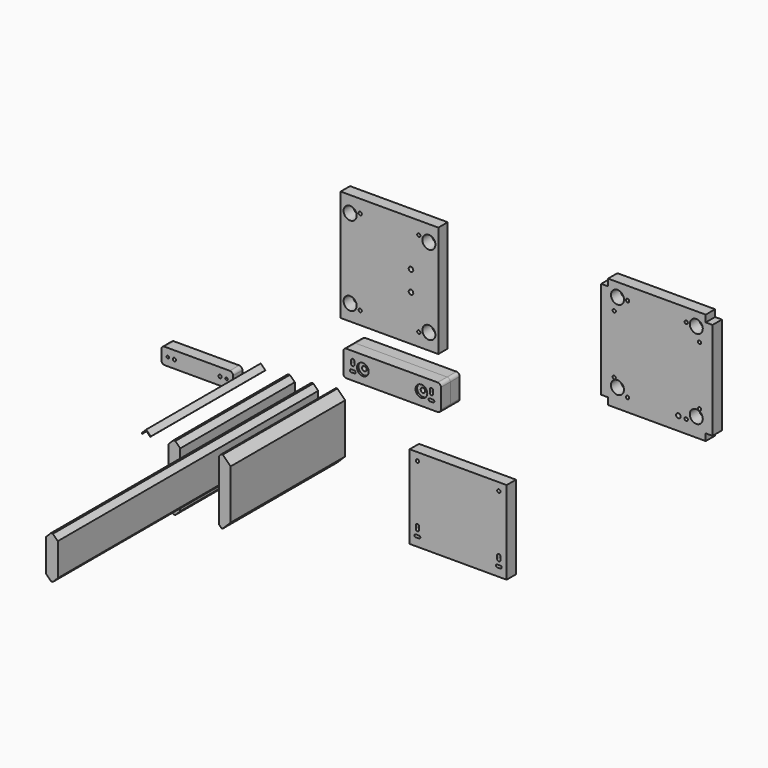
from build123d import *

# Parameters (mm, degrees)
F1_DEPTH  = 220
F3_DEPTH  = 500
F4_W      = 110
F4_H      = 25
F4_R      = 2
F4_R_2    = 2.5
F5_DEPTH  = 18
F6_R      = 5
F8_DEPTH  = 220
F9_W      = 149
F9_H      = 128
F9_R      = 2.5
F10_DEPTH = 18
F11_R     = 2.5
F12_DEPTH = 25
F13_W     = 150
F13_H     = 40
F14_DEPTH = 18
F15_R     = 2.5
F16_DEPTH = 25
F17_R     = 5
F18_R     = 3.5
F19_DEPTH = 25
F20_R     = 9
F21_DEPTH = 3
F22_W     = 150
F22_H     = 171
F22_R     = 2.5
F23_DEPTH = 18
F24_R     = 10
F25_DEPTH = 25
F26_R     = 3.5
F27_DEPTH = 25
F28_R     = 9
F29_DEPTH = 3
F30_R     = 3.5
F30_R_2   = 10
F31_DEPTH = 18
F33_DEPTH = 220
F34_W     = 150
F34_H     = 10.5
F34_W_2   = 10.5
F34_H_2   = 150
F34_R     = 2.5
F35_DEPTH = 18
F36_R     = 10
F37_DEPTH = 25
F38_R     = 3.5
F39_DEPTH = 25


with BuildPart() as f1:
    # F0 (on Front) → F1 (new body)
    with BuildSketch(Plane.XZ):
        Polygon((-8.9598067405, -26.6892028064), (-1.4310971492, -34.1604932151), (1.5689028508, -34.1604932151), (9.0401932595, -26.6317836238), (9.0401932595, 58.3682163762), (1.5114836682, 65.8395067849), (-1.4885163318, 65.8395067849), (-8.9598067405, 58.3107971936), align=None)
    extrude(amount=F1_DEPTH)


with BuildPart() as f3:
    # F2 (on Front) → F3 (new body)
    with BuildSketch(Plane.XZ):
        Polygon((26.9945189357, 8.3999976516), (34.5249012537, 0.9303799696), (37.5249012537, 0.9303799696), (44.9945189357, 8.4607622876), (44.9945189357, 58.4607622876), (37.4641366177, 65.9303799696), (34.4641366177, 65.9303799696), (26.9945189357, 58.3999976516), align=None)
    extrude(amount=F3_DEPTH)


with BuildPart() as f5:
    # F4 (on Front) → F5 (new body)
    with BuildSketch(Plane.XZ):
        with Locations((-126.4987008849, 40.8526393026)):
            Rectangle(F4_W, F4_H)
        with Locations((-171.4987008849, 40.8526393026)):
            Circle(F4_R, mode=Mode.SUBTRACT)
        with Locations((-161.4987008849, 40.8526393026)):
            Circle(F4_R_2, mode=Mode.SUBTRACT)
        with Locations((-91.4987008849, 40.8526393026)):
            Circle(F4_R_2, mode=Mode.SUBTRACT)
        with Locations((-81.4987008849, 40.8526393026)):
            Circle(F4_R, mode=Mode.SUBTRACT)
    extrude(amount=F5_DEPTH)

    # F6
    f6_edges = [f5.edges().sort_by_distance(p)[0] for p in [
        (-181.498701, -9, 53.352639),
        (-181.498701, -9, 28.352639),
        (-71.498701, -9, 53.352639),
        (-71.498701, -9, 28.352639),
    ]]
    fillet(f6_edges, radius=F6_R)


with BuildPart() as f8:
    # F7 (on Front) → F8 (new body)
    with BuildSketch(Plane.XZ):
        Polygon((-50.272422795, 59.7892550582), (-49.3885393185, 58.9053715817), (-43.2013549831, 65.0925559171), (-37.0141706477, 58.9053715817), (-36.1302871713, 59.7892550582), (-43.2013549831, 66.8603228701), align=None)
    extrude(amount=F8_DEPTH)


with BuildPart() as f10:
    # F9 (on Front) → F10 (new body)
    with BuildSketch(Plane.XZ):
        with Locations((274.2160866261, -26.921486027)):
            Rectangle(F9_W, F9_H)
        with BuildLine():
            Line((214.2160866261, -78.921486027), (209.2160866261, -78.921486027))
            ThreePointArc((209.2160866261, -78.921486027), (207.2160866261, -76.921486027), (209.2160866261, -74.921486027))
            Line((209.2160866261, -74.921486027), (214.2160866261, -74.921486027))
            ThreePointArc((214.2160866261, -74.921486027), (216.2160866261, -76.921486027), (214.2160866261, -78.921486027))
        make_face(mode=Mode.SUBTRACT)
        with BuildLine():
            ThreePointArc((209.2160866261, -62.421486027), (211.7160866261, -59.921486027), (214.2160866261, -62.421486027))
            Line((214.2160866261, -62.421486027), (214.2160866261, -67.421486027))
            ThreePointArc((214.2160866261, -67.421486027), (211.7160866261, -69.921486027), (209.2160866261, -67.421486027))
            Line((209.2160866261, -67.421486027), (209.2160866261, -62.421486027))
        make_face(mode=Mode.SUBTRACT)
        with BuildLine():
            ThreePointArc((334.2160866261, -78.921486027), (332.2160866261, -76.921486027), (334.2160866261, -74.921486027))
            Line((334.2160866261, -74.921486027), (339.2160866261, -74.921486027))
            ThreePointArc((339.2160866261, -74.921486027), (341.2160866261, -76.921486027), (339.2160866261, -78.921486027))
            Line((339.2160866261, -78.921486027), (334.2160866261, -78.921486027))
        make_face(mode=Mode.SUBTRACT)
        with BuildLine():
            ThreePointArc((334.2160866261, -62.421486027), (336.7160866261, -59.921486027), (339.2160866261, -62.421486027))
            Line((339.2160866261, -62.421486027), (339.2160866261, -67.421486027))
            ThreePointArc((339.2160866261, -67.421486027), (336.7160866261, -69.921486027), (334.2160866261, -67.421486027))
            Line((334.2160866261, -67.421486027), (334.2160866261, -62.421486027))
        make_face(mode=Mode.SUBTRACT)
        with Locations((211.7160866261, 25.078513973)):
            Circle(F9_R, mode=Mode.SUBTRACT)
        with Locations((336.7160866261, 25.078513973)):
            Circle(F9_R, mode=Mode.SUBTRACT)
    extrude(amount=F10_DEPTH)

    # F11 (on face) → F12 (cut)
    with BuildSketch(Plane(origin=(0, 0, -90.921486027), x_dir=(1, 0, 0), z_dir=(0, 0, -1))):
        with Locations((211.7160866261, 9)):
            Circle(F11_R)
        with Locations((336.7160866261, 9)):
            Circle(F11_R)
    extrude(amount=-F12_DEPTH, mode=Mode.SUBTRACT)


with BuildPart() as f14:
    # F13 (on Front) → F14 (new body)
    with BuildSketch(Plane.XZ):
        with Locations((172.826719977, 121.421508193)):
            Rectangle(F13_W, F13_H)
        with BuildLine():
            Line((109.826719977, 115.921508193), (114.826719977, 115.921508193))
            ThreePointArc((114.826719977, 115.921508193), (116.826719977, 113.921508193), (114.826719977, 111.921508193))
            Line((114.826719977, 111.921508193), (109.826719977, 111.921508193))
            ThreePointArc((109.826719977, 111.921508193), (107.826719977, 113.921508193), (109.826719977, 115.921508193))
        make_face(mode=Mode.SUBTRACT)
        with BuildLine():
            ThreePointArc((230.826719977, 111.921508193), (228.826719977, 113.921508193), (230.826719977, 115.921508193))
            Line((230.826719977, 115.921508193), (235.826719977, 115.921508193))
            ThreePointArc((235.826719977, 115.921508193), (237.826719977, 113.921508193), (235.826719977, 111.921508193))
            Line((235.826719977, 111.921508193), (230.826719977, 111.921508193))
        make_face(mode=Mode.SUBTRACT)
        with BuildLine():
            Line((109.826719977, 123.421508193), (109.826719977, 128.421508193))
            ThreePointArc((109.826719977, 128.421508193), (112.326719977, 130.921508193), (114.826719977, 128.421508193))
            Line((114.826719977, 128.421508193), (114.826719977, 123.421508193))
            ThreePointArc((114.826719977, 123.421508193), (112.326719977, 120.921508193), (109.826719977, 123.421508193))
        make_face(mode=Mode.SUBTRACT)
        with BuildLine():
            ThreePointArc((230.826719977, 128.421508193), (233.326719977, 130.921508193), (235.826719977, 128.421508193))
            Line((235.826719977, 128.421508193), (235.826719977, 123.421508193))
            ThreePointArc((235.826719977, 123.421508193), (233.326719977, 120.921508193), (230.826719977, 123.421508193))
            Line((230.826719977, 123.421508193), (230.826719977, 128.421508193))
        make_face(mode=Mode.SUBTRACT)
    extrude(amount=F14_DEPTH)

    # F15 (on face) → F16 (cut)
    with BuildSketch(Plane(origin=(0, 0, 101.421508193), x_dir=(1, 0, 0), z_dir=(0, 0, -1))):
        with Locations((112.326719977, 9)):
            Circle(F15_R)
        with Locations((233.326719977, 9)):
            Circle(F15_R)
    extrude(amount=-F16_DEPTH, mode=Mode.SUBTRACT)

    # F17
    f17_edges = [f14.edges().sort_by_distance(p)[0] for p in [
        (97.82672, -9, 141.421508),
        (97.82672, -9, 101.421508),
        (247.82672, -9, 101.421508),
        (247.82672, -9, 141.421508),
    ]]
    fillet(f17_edges, radius=F17_R)

    # F18 (on face) → F19 (cut)
    with BuildSketch(Plane.XZ.offset(18)):
        with Locations((127.826719977, 121.421508193)):
            Circle(F18_R)
        with Locations((217.826719977, 121.421508193)):
            Circle(F18_R)
    extrude(amount=-F19_DEPTH, mode=Mode.SUBTRACT)

    # F20 (on face) → F21 (cut)
    with BuildSketch(Plane.XZ.offset(18)):
        with Locations((127.826719977, 121.421508193)):
            Circle(F20_R)
        with Locations((217.826719977, 121.421508193)):
            Circle(F20_R)
    extrude(amount=-F21_DEPTH, mode=Mode.SUBTRACT)


with BuildPart() as f23:
    # F22 (on Front) → F23 (new body)
    with BuildSketch(Plane.XZ):
        with Locations((168.8189171255, 265.5781562328)):
            Rectangle(F22_W, F22_H)
        with Locations((123.8189171255, 200.0781562328)):
            Circle(F22_R, mode=Mode.SUBTRACT)
        with Locations((213.8189171255, 200.0781562328)):
            Circle(F22_R, mode=Mode.SUBTRACT)
        with Locations((123.8189171255, 331.0781562328)):
            Circle(F22_R, mode=Mode.SUBTRACT)
        with Locations((213.8189171255, 331.0781562328)):
            Circle(F22_R, mode=Mode.SUBTRACT)
    extrude(amount=F23_DEPTH)

    # F24 (on face) → F25 (cut)
    with BuildSketch(Plane(origin=(0, 0, 0), x_dir=(-1, 0, 0), z_dir=(0, 1, 0))):
        with Locations((-108.3189171255, 204.5781562328)):
            Circle(F24_R)
        with Locations((-229.3189171255, 204.5781562328)):
            Circle(F24_R)
        with Locations((-108.3189171255, 326.5781562328)):
            Circle(F24_R)
        with Locations((-229.3189171255, 326.5781562328)):
            Circle(F24_R)
    extrude(amount=-F25_DEPTH, mode=Mode.SUBTRACT)

    # F26 (on face) → F27 (cut)
    with BuildSketch(Plane.XZ.offset(18)):
        with Locations((201.8189171255, 281.0781562328)):
            Circle(F26_R)
        with Locations((201.8189171255, 250.0781562328)):
            Circle(F26_R)
    extrude(amount=-F27_DEPTH, mode=Mode.SUBTRACT)

    # F28 (on face) → F29 (cut)
    with BuildSketch(Plane(origin=(0, 0, 0), x_dir=(-1, 0, 0), z_dir=(0, 1, 0))):
        with Locations((-201.8189171255, 281.0781562328)):
            Circle(F28_R)
        with Locations((-201.8189171255, 250.0781562328)):
            Circle(F28_R)
    extrude(amount=-F29_DEPTH, mode=Mode.SUBTRACT)


with BuildPart() as f31:
    # F30 (on face) → F31 (new body)
    with BuildSketch(Plane(origin=(0, 0, 0), x_dir=(-1, 0, 0), z_dir=(0, 1, 0))):
        with BuildLine():
            Line((-97.826719977, 106.421508193), (-97.826719977, 136.421508193))
            ThreePointArc((-97.826719977, 136.421508193), (-99.291186071, 139.9570420989), (-102.826719977, 141.421508193))
            Line((-102.826719977, 141.421508193), (-242.826719977, 141.421508193))
            ThreePointArc((-242.826719977, 141.421508193), (-246.3622538829, 139.9570420989), (-247.826719977, 136.421508193))
            Line((-247.826719977, 136.421508193), (-247.826719977, 106.421508193))
            ThreePointArc((-247.826719977, 106.421508193), (-246.3622538829, 102.8859742871), (-242.826719977, 101.421508193))
            Line((-242.826719977, 101.421508193), (-102.826719977, 101.421508193))
            ThreePointArc((-102.826719977, 101.421508193), (-99.291186071, 102.8859742871), (-97.826719977, 106.421508193))
        make_face()
        with Locations((-217.826719977, 121.421508193)):
            Circle(F30_R, mode=Mode.SUBTRACT)
        with Locations((-233.326719977, 125.921508193)):
            Circle(F30_R_2, mode=Mode.SUBTRACT)
        with Locations((-127.826719977, 121.421508193)):
            Circle(F30_R, mode=Mode.SUBTRACT)
        with Locations((-112.326719977, 125.921508193)):
            Circle(F30_R_2, mode=Mode.SUBTRACT)
    extrude(amount=F31_DEPTH)


with BuildPart() as f33:
    # F32 (on Front) → F33 (new body)
    with BuildSketch(Plane.XZ):
        Polygon((68.3102175416, -24.9367638386), (72.3102175416, -28.9367638386), (74.3102175416, -28.9367638386), (86.3102175416, -16.9367638386), (86.3102175416, 59.0632361614), (74.3102175416, 71.0632361614), (72.3102175416, 71.0632361614), (68.3102175416, 67.0632361614), align=None)
    extrude(amount=F33_DEPTH)


with BuildPart() as f35:
    # F34 (on Front) → F35 (new body)
    with BuildSketch(Plane.XZ):
        with Locations((579.4612884521, 201.1829924583)):
            Rectangle(F34_W, F34_H)
        with Locations((499.2112884521, 281.4329924583)):
            Rectangle(F34_W_2, F34_H_2)
        with Locations((579.4612884521, 281.4329924583)):
            Rectangle(F34_W, F34_H_2)
        with Locations((534.4612884521, 215.9329924583)):
            Circle(F34_R, mode=Mode.SUBTRACT)
        with Locations((513.9612884521, 236.4329924583)):
            Circle(F34_R, mode=Mode.SUBTRACT)
        with Locations((624.4612884521, 215.9329924583)):
            Circle(F34_R, mode=Mode.SUBTRACT)
        with Locations((644.9612884521, 236.4329924583)):
            Circle(F34_R, mode=Mode.SUBTRACT)
        with Locations((513.9612884521, 326.4329924583)):
            Circle(F34_R, mode=Mode.SUBTRACT)
        with Locations((534.4612884521, 346.9329924583)):
            Circle(F34_R, mode=Mode.SUBTRACT)
        with Locations((644.9612884521, 326.4329924583)):
            Circle(F34_R, mode=Mode.SUBTRACT)
        with Locations((624.4612884521, 346.9329924583)):
            Circle(F34_R, mode=Mode.SUBTRACT)
        with Locations((659.7112884521, 281.4329924583)):
            Rectangle(F34_W_2, F34_H_2)
        with Locations((579.4612884521, 361.6829924583)):
            Rectangle(F34_W, F34_H)
    extrude(amount=F35_DEPTH)

    # F36 (on face) → F37 (cut)
    with BuildSketch(Plane.XZ.offset(18)):
        with Locations((639.9612884521, 224.4329924583)):
            Circle(F36_R)
        with Locations((518.9612884521, 224.4329924583)):
            Circle(F36_R)
        with Locations((639.9612884521, 346.4329924583)):
            Circle(F36_R)
        with Locations((518.9612884521, 346.4329924583)):
            Circle(F36_R)
    extrude(amount=-F37_DEPTH, mode=Mode.SUBTRACT)

    # F38 (on face) → F39 (cut)
    with BuildSketch(Plane.XZ.offset(18)):
        with Locations((612.4612884521, 216.6829924583)):
            Circle(F38_R)
        with Locations((612.4612884521, 185.6829924583)):
            Circle(F38_R)
    extrude(amount=-F39_DEPTH, mode=Mode.SUBTRACT)


solid = Compound([f1.part, f3.part, f5.part, f8.part, f10.part, f14.part, f23.part, f31.part, f33.part, f35.part])
